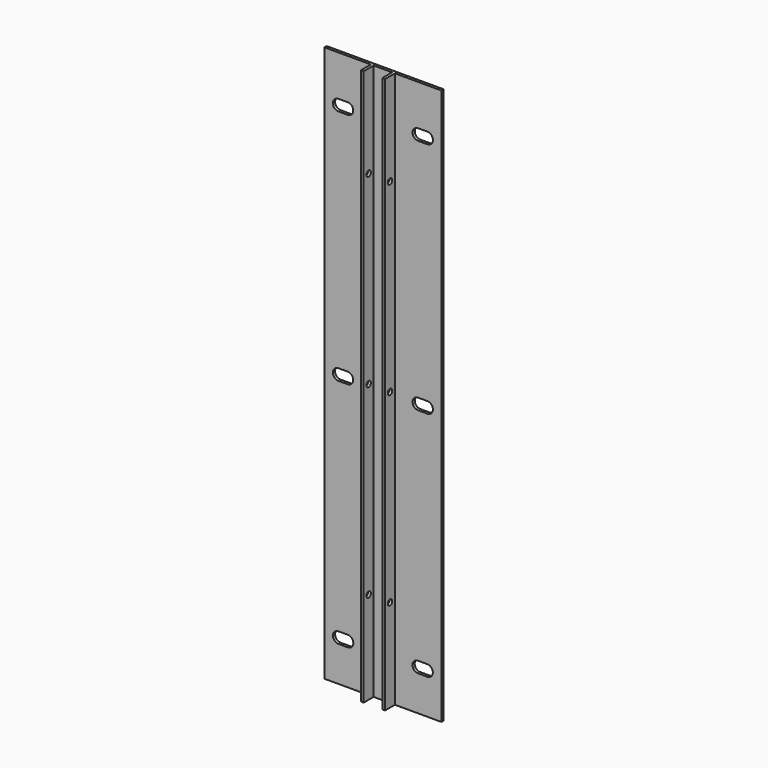
from build123d import *

# Parameters (mm, degrees)
F1_DEPTH = 600
F3_DEPTH = 3.001
F4_R     = 3
F5_DEPTH = 76.001


with BuildPart() as f1:
    # F0 (on Top) → F1 (new body)
    with BuildSketch(Plane.XY):
        Polygon((63, 0), (-63, 0), (-63, -3), (-13, -3), (-13, -16.339283), (-10, -16.339283), (-10, -3), (10, -3), (10, -16.339283), (13, -16.339283), (13, -3), (63, -3), align=None)
    extrude(amount=F1_DEPTH)

    # F2 (on face) → F3 (cut, through all)
    with BuildSketch(Plane.XZ.offset(3)):
        with BuildLine():
            Line((-38, 556), (-48, 556))
            ThreePointArc((-48, 556), (-54, 550), (-48, 544))
            Line((-48, 544), (-38, 544))
            ThreePointArc((-38, 544), (-32, 550), (-38, 556))
        make_face()
        with BuildLine():
            Line((-38, 300), (-48, 300))
            ThreePointArc((-48, 300), (-54, 294), (-48, 288))
            Line((-48, 288), (-38, 288))
            ThreePointArc((-38, 288), (-32, 294), (-38, 300))
        make_face()
        with BuildLine():
            Line((-37.934902, 50), (-47.934902, 50))
            ThreePointArc((-47.934902, 50), (-53.934902, 44), (-47.934902, 38))
            Line((-47.934902, 38), (-37.934902, 38))
            ThreePointArc((-37.934902, 38), (-31.934902, 44), (-37.934902, 50))
        make_face()
        with BuildLine():
            ThreePointArc((47.934902, 38), (53.934902, 44), (47.934902, 50))
            Line((47.934902, 50), (37.934902, 50))
            ThreePointArc((37.934902, 50), (31.934902, 44), (37.934902, 38))
            Line((37.934902, 38), (47.934902, 38))
        make_face()
        with BuildLine():
            ThreePointArc((48, 288), (54, 294), (48, 300))
            Line((48, 300), (38, 300))
            ThreePointArc((38, 300), (32, 294), (38, 288))
            Line((38, 288), (48, 288))
        make_face()
        with BuildLine():
            ThreePointArc((38, 556), (32, 550), (38, 544))
            Line((38, 544), (48, 544))
            ThreePointArc((48, 544), (54, 550), (48, 556))
            Line((48, 556), (38, 556))
        make_face()
    extrude(amount=-F3_DEPTH, mode=Mode.SUBTRACT)

    # F4 (on face) → F5 (cut, through all)
    with BuildSketch(Plane(origin=(-13, 0, 0), x_dir=(0, -1, 0), z_dir=(-1, 0, 0))):
        with Locations((9.669641, 500)):
            Circle(F4_R)
        with Locations((9.669641, 300)):
            Circle(F4_R)
        with Locations((9.669641, 100)):
            Circle(F4_R)
    extrude(amount=-F5_DEPTH, mode=Mode.SUBTRACT)


solid = f1.part
